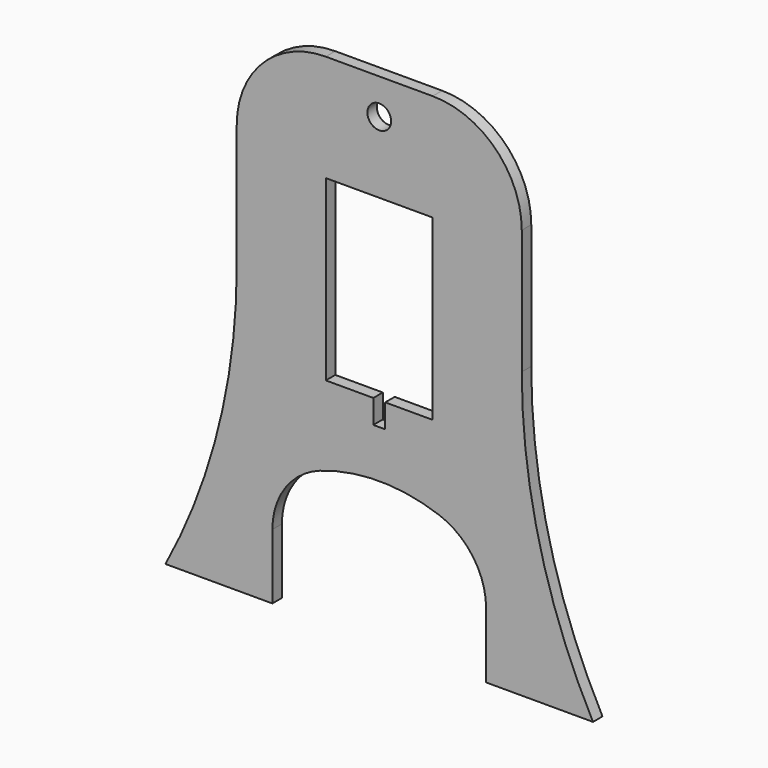
from build123d import *

# Parameters (mm, degrees)
F0_R     = 50.8
F1_DEPTH = 50.8


with BuildPart() as f1:
    # F0 (on Front) → F1 (new body)
    with BuildSketch(Plane.XZ):
        with BuildLine():
            ThreePointArc((1219.2, 1752.6), (1107.607684, 2022.007684), (838.2, 2133.6))
            Line((838.2, 2133.6), (381, 2133.6))
            ThreePointArc((381, 2133.6), (111.592316, 2022.007684), (0, 1752.6))
            Line((0, 1752.6), (0, 1219.2))
            ThreePointArc((0, 1219.2), (-77.354811, 590.838703), (-304.8, 0))
            Line((-304.8, 0), (152.4, 0))
            Line((152.4, 0), (152.4, 278.652294))
            ThreePointArc((152.4, 278.652294), (208.331842, 454.628656), (355.6, 566.02049))
            ThreePointArc((355.6, 566.02049), (609.6, 609.6), (863.6, 566.02049))
            ThreePointArc((863.6, 566.02049), (1010.868158, 454.628656), (1066.8, 278.652294))
            Line((1066.8, 278.652294), (1066.8, 0))
            Line((1066.8, 0), (1524, 0))
            ThreePointArc((1524, 0), (1296.554811, 590.838703), (1219.2, 1219.2))
            Line((1219.2, 1219.2), (1219.2, 1752.6))
        make_face()
        Polygon((584.2, 914.4), (381, 914.4), (381, 1676.4), (838.2, 1676.4), (838.2, 914.4), (635, 914.4), (635, 812.8), (584.2, 812.8), align=None, mode=Mode.SUBTRACT)
        with Locations((609.6, 1981.2)):
            Circle(F0_R, mode=Mode.SUBTRACT)
    extrude(amount=F1_DEPTH)


solid = f1.part
